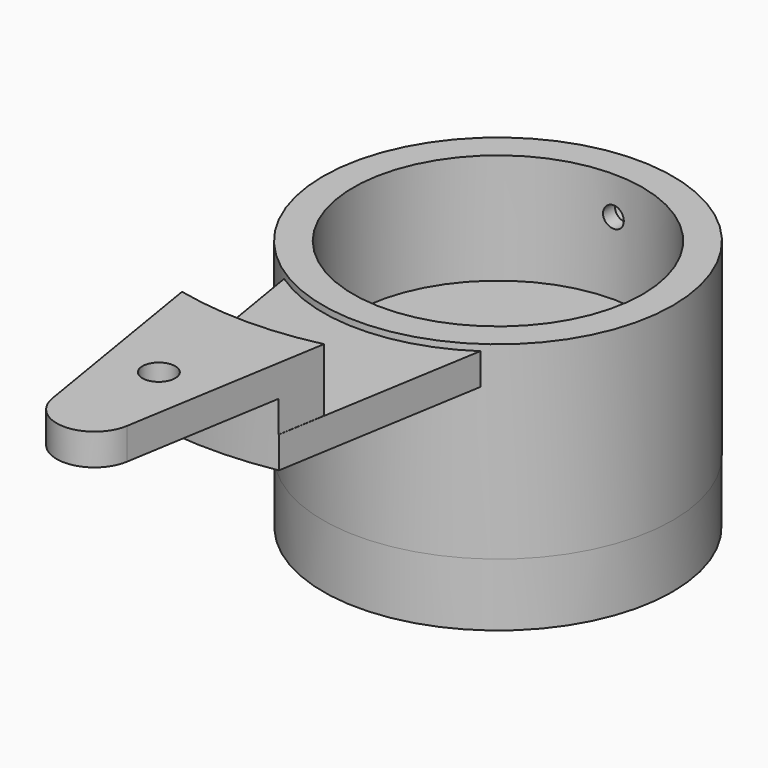
from build123d import *

# Parameters (mm, degrees)
CYLINDER016_R     = 1.65
CYLINDER016_DEPTH = 50
CYLINDER017_R     = 3.25
CYLINDER017_DEPTH = 2.5
BOX005_W          = 80
BOX005_H          = 100
BOX005_DEPTH      = 9.5
CYLINDER014_R     = 22.95
CYLINDER014_DEPTH = 27
CYLINDER015_R     = 27.75
CYLINDER015_DEPTH = 40
SKETCH013_R       = 27.75
PAD001_DEPTH      = 10
SKETCH014_W       = 24
SKETCH014_H       = 14.2
POCKET013_DEPTH   = 28
SKETCH015_R       = 8.1
POCKET014_DEPTH   = 15
POCKET015_DEPTH   = 14.4
PAD003_DEPTH      = 5
PAD004_DEPTH      = 10
POCKET017_DEPTH   = 10
SKETCH022_R       = 2.6
POCKET018_DEPTH   = 4.2
SKETCH023_W       = 108.293205
SKETCH023_H       = 87.132465
POCKET019_DEPTH   = 20
SKETCH024_R       = 27.699707
PAD005_DEPTH      = 10
SKETCH025_W       = 11.3
SKETCH025_H       = 5.3
POCKET020_DEPTH   = 33
POCKET021_DEPTH   = 5.3
SKETCH027_R       = 4.253317
POCKET022_DEPTH   = 8


with BuildPart() as cylinder016:
    # Cylinder016 → Cylinder016 (new body)
    with BuildSketch(Plane(origin=(0, 50, 20), x_dir=(1, 0, 0), z_dir=(0, -1, 0))):
        Circle(CYLINDER016_R)
    extrude(amount=CYLINDER016_DEPTH)


with BuildPart() as cylinder017:
    # Cylinder017 → Cylinder017 (new body)
    with BuildSketch(Plane(origin=(0, 27.75, 20), x_dir=(1, 0, 0), z_dir=(0, -1, 0))):
        Circle(CYLINDER017_R)
    extrude(amount=CYLINDER017_DEPTH)


with BuildPart() as obj1:
    # Box005 → Box005 (new body)
    with BuildSketch(Plane(origin=(-40, 0, -1), x_dir=(1, 0, 0), z_dir=(0, 0, 1))):
        with Locations((40, 50)):
            Rectangle(BOX005_W, BOX005_H)
    extrude(amount=BOX005_DEPTH)


with BuildPart() as fusion007:
    # Cylinder014 → Cylinder014 (new body)
    with BuildSketch(Plane.XY.offset(-1)):
        Circle(CYLINDER014_R)
    extrude(amount=CYLINDER014_DEPTH)

    # Cut011: cut obj1
    add(obj1.part, mode=Mode.SUBTRACT)

    # Fusion007: union Cylinder016, Cylinder017
    add(cylinder016.part)
    add(cylinder017.part)


with BuildPart() as obj2:
    # Cylinder015 → Cylinder015 (new body)
    with BuildSketch(Plane.XY.offset(-14)):
        Circle(CYLINDER015_R)
    extrude(amount=CYLINDER015_DEPTH)

    # Cut010: cut Fusion007
    add(fusion007.part, mode=Mode.SUBTRACT)

    # Sketch013 (on Face2 of BaseFeature003) → Pad001 (new body)
    with BuildSketch(Plane(origin=(0, 0, -14), x_dir=(1, 0, 0), z_dir=(0, 0, -1))):
        Circle(SKETCH013_R)
    extrude(amount=PAD001_DEPTH)

    # Sketch014 → Pocket013 (cut)
    with BuildSketch(Plane(origin=(0, 28, 0), x_dir=(-1, 0, 0), z_dir=(0, 1, 0))):
        with Locations((0, -12.1)):
            Rectangle(SKETCH014_W, SKETCH014_H)
    extrude(amount=-POCKET013_DEPTH, mode=Mode.SUBTRACT)

    # Sketch015 (on Face6 of Pocket013) → Pocket014 (cut)
    with BuildSketch(Plane(origin=(0, 0, -24), x_dir=(1, 0, 0), z_dir=(0, 0, -1))):
        Circle(SKETCH015_R)
    extrude(amount=-POCKET014_DEPTH, mode=Mode.SUBTRACT)

    # Sketch016 (on Face6 of Pocket014) → Pocket015 (cut)
    with BuildSketch(Plane(origin=(0, 0, -19.3), x_dir=(1, 0, 0), z_dir=(0, 0, -1))):
        Polygon((0, -14.036056), (12.155581, -7.018028), (12.155581, 7.018028), (0, 14.036056), (-12.155581, 7.018028), (-12.155581, -7.018028), align=None)
    extrude(amount=-POCKET015_DEPTH, mode=Mode.SUBTRACT)

    # Sketch019 (on Face8 of Pocket015) → Pad003 (join)
    with BuildSketch(Plane.XY.offset(25)):
        with BuildLine():
            ThreePointArc((-15.553331, -22.846971), (0.028426, -27.638548), (15.600294, -22.814929))
            Line((15.600294, -22.814929), (5.918583, -80.985076))
            ThreePointArc((-5.919268, -80.980951), (-0.002091, -86), (5.918583, -80.985076))
            Line((-15.553331, -22.846971), (-5.919268, -80.980951))
        make_face()
    extrude(amount=-PAD003_DEPTH)

    # Sketch020 (on Face12 of Pad003) → Pad004 (join)
    with BuildSketch(Plane.XY.offset(25)):
        with BuildLine():
            ThreePointArc((-5.898869, -81.096969), (0.071542, -85.999573), (5.92335, -80.955994))
            Line((11.272496, -48.593121), (5.92335, -80.955994))
            ThreePointArc((-11.235042, -48.601794), (0.019223, -49.883466), (11.272496, -48.593121))
            Line((-11.235042, -48.601794), (-5.898869, -81.096969))
        make_face()
    extrude(amount=PAD004_DEPTH)

    # Sketch021 (on Face10 of Pad004) → Pocket017 (cut)
    with BuildSketch(Plane(origin=(0, 0, 20), x_dir=(1, 0, 0), z_dir=(0, 0, -1))):
        with BuildLine():
            ThreePointArc((17.426701, 54.194258), (-0.181494, 56.926923), (-17.771906, 54.082038))
            Line((-17.771906, 54.082038), (-17.771906, 91.276634))
            Line((17.426701, 91.276634), (-17.771906, 91.276634))
            Line((17.426701, 54.194258), (17.426701, 91.276634))
        make_face()
    extrude(amount=-POCKET017_DEPTH, mode=Mode.SUBTRACT)

    # Sketch022 (on Face33 of Pocket017) → Pocket018 (cut)
    with BuildSketch(Plane.XY.offset(35)):
        with Locations((0, -67.25)):
            Circle(SKETCH022_R)
    extrude(amount=-POCKET018_DEPTH, mode=Mode.SUBTRACT)

    # Sketch023 (on Face6 of Pocket018) → Pocket019 (cut)
    with BuildSketch(Plane(origin=(0, 0, -24), x_dir=(1, 0, 0), z_dir=(0, 0, -1))):
        with Locations((-3.019794, 5.274049)):
            Rectangle(SKETCH023_W, SKETCH023_H)
    extrude(amount=-POCKET019_DEPTH, mode=Mode.SUBTRACT)

    # Sketch024 (on Face2 of Pocket019) → Pad005 (join)
    with BuildSketch(Plane(origin=(0, 0, -4), x_dir=(1, 0, 0), z_dir=(0, 0, -1))):
        Circle(SKETCH024_R)
    extrude(amount=PAD005_DEPTH)

    # Sketch025 → Pocket020 (cut)
    with BuildSketch(Plane.XZ.offset(-33)):
        with Locations((0, -8.627069)):
            Rectangle(SKETCH025_W, SKETCH025_H)
    extrude(amount=POCKET020_DEPTH, mode=Mode.SUBTRACT)

    # Sketch026 → Pocket021 (cut)
    with BuildSketch(Plane.XY.offset(-6)):
        Polygon((5.65, -3.262029), (5.65, 3.262029), (0, 6.524058), (-5.65, 3.262029), (-5.65, -3.262029), (0, -6.524058), align=None)
    extrude(amount=-POCKET021_DEPTH, mode=Mode.SUBTRACT)

    # Sketch027 (on Face16 of Pocket021) → Pocket022 (cut)
    with BuildSketch(Plane(origin=(0, 0, -14), x_dir=(1, 0, 0), z_dir=(0, 0, -1))):
        Circle(SKETCH027_R)
    extrude(amount=-POCKET022_DEPTH, mode=Mode.SUBTRACT)


solid = obj2.part
